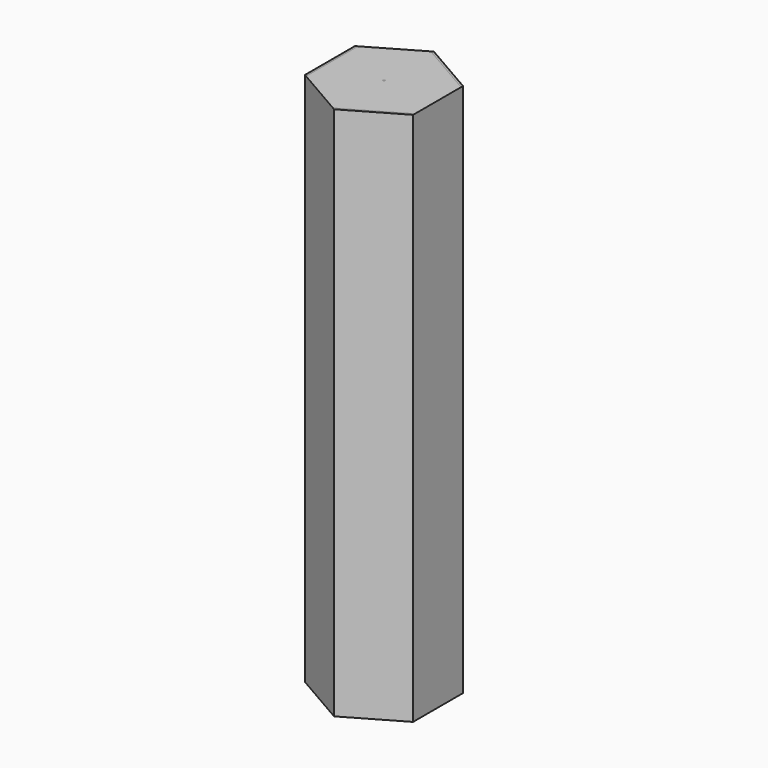
from build123d import *

# Parameters (mm, degrees)
F1_DEPTH = 25
F3_DEPTH = 25
F5_DEPTH = 25
F7_DEPTH = 25
F8_R     = 0.05
F9_DEPTH = 25


with BuildPart() as f1:
    # F0 (on Top) → F1 (new body)
    with BuildSketch(Plane.XY):
        Polygon((2.529, -1.460119), (2.529, 1.460119), (-0.00375, 2.922403), (-2.529, 1.460119), (-2.529, -1.460119), (0, -2.920238), align=None)
    extrude(amount=F1_DEPTH)


with BuildPart() as f3:
    # F2 (on Top) → F3 (new body)
    with BuildSketch(Plane.XY):
        Polygon((2.505, -1.446262), (2.505, 1.446262), (0, 2.892525), (-2.505, 1.446262), (-2.505, -1.446262), (0, -2.892525), align=None)
    extrude(amount=F3_DEPTH)


with BuildPart() as f5:
    # F4 (on Top) → F5 (new body)
    with BuildSketch(Plane.XY):
        Polygon((2.471, -1.426633), (2.471, 1.426633), (0, 2.853265), (-2.471, 1.426633), (-2.471, -1.426633), (0, -2.853265), align=None)
    extrude(amount=F5_DEPTH)


with BuildPart() as f7:
    # F6 (on Top) → F7 (new body)
    with BuildSketch(Plane.XY):
        Polygon((2.495, -1.440489), (2.495, 1.440489), (0, 2.880978), (-2.495, 1.440489), (-2.495, -1.440489), (0, -2.880978), align=None)
    extrude(amount=F7_DEPTH)


with BuildPart() as f9:
    # F8 (on Top) → F9 (new body)
    with BuildSketch(Plane.XY):
        Polygon((2.52, 1.351), (-0.09, 2.857884), (-2.43, 1.506884), (-2.43, -1.506884), (-0.09, -2.857884), (2.52, -1.351), align=None)
        Circle(F8_R, mode=Mode.SUBTRACT)
    extrude(amount=F9_DEPTH)


solid = Compound([f1.part, f3.part, f5.part, f7.part, f9.part])
